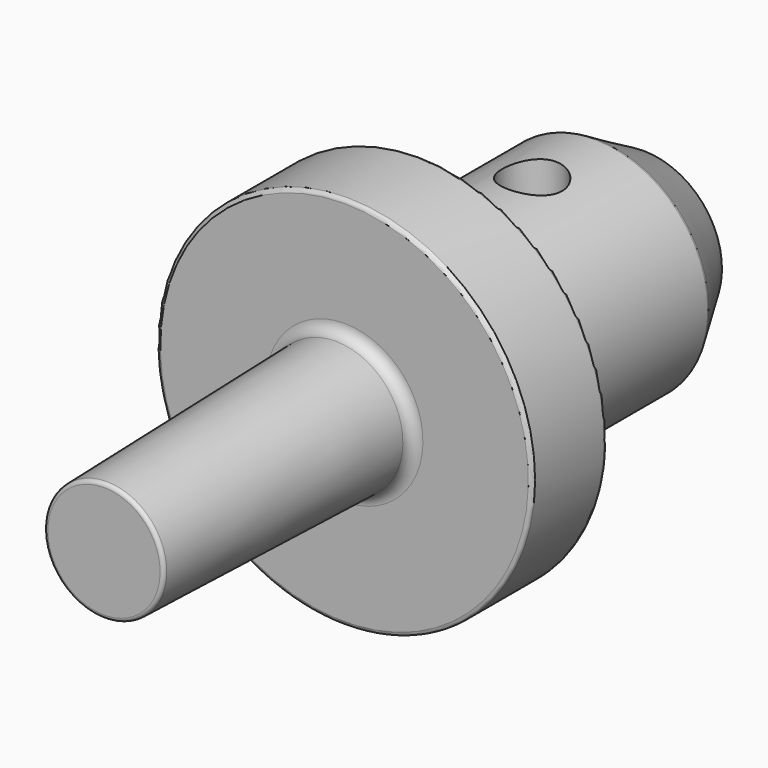
from build123d import *

# Parameters (mm, degrees)
F2_R      = 0.762
F3_R      = 0.254
F6_R      = 0.762
F7_R      = 0.254
F9_D      = 5.1054
F9_DEPTH  = 29.21
F9_TIP    = 1.5338169022
F11_D     = 4.0386
F11_DEPTH = 20.79625
F11_TIP   = 1.213317848


with BuildPart() as f1:
    # F0 (on Right) → F1 (revolve)
    with BuildSketch(Plane.YZ):
        Polygon((-20.32, 0), (25.4, 0), (25.4, 12.7), (0, 12.7), (0, 4.572), (-20.32, 4.0431670856), align=None)
    revolve(axis=Axis((0, 2.54, 0), (0, 1, 0)))

    # F2
    f2_edges = [f1.edges().sort_by_distance(p)[0] for p in [
        (0, 0, -4.572),
    ]]
    fillet(f2_edges, radius=F2_R)

    # F3
    f3_edges = [f1.edges().sort_by_distance(p)[0] for p in [
        (0, 0, -12.7),
        (0, 25.4, -12.7),
        (0, -20.32, -4.043167),
    ]]
    fillet(f3_edges, radius=F3_R)

    # F4 (on Right) → F5 (revolve, cut)
    with BuildSketch(Plane.YZ):
        Polygon((25.4, 19.05), (6.35, 19.05), (6.35, 7.6581), (21.2173533836, 7.6581), (25.4, 5.2432478501), align=None)
    revolve(axis=Axis((0, 4.037976265, 0), (0, 1, 0)), mode=Mode.SUBTRACT)

    # F6
    f6_edges = [f1.edges().sort_by_distance(p)[0] for p in [
        (0, 6.35, -7.6581),
    ]]
    fillet(f6_edges, radius=F6_R)

    # F7
    f7_edges = [f1.edges().sort_by_distance(p)[0] for p in [
        (0, 6.35, -12.7),
        (0, 21.217353, -7.6581),
        (0, 25.4, -5.243248),
    ]]
    fillet(f7_edges, radius=F7_R)

    # F9
    with Locations(Plane(origin=(0, 25.4, 0), x_dir=(-1, 0, 0), z_dir=(0, 1, 0))):
        with Locations((0, 0)):
            Hole(F9_D / 2, depth=F9_DEPTH)
            with Locations((0, 0, -(F9_DEPTH + F9_TIP / 2))):  # 118° drill point
                Cone(0, F9_D / 2, F9_TIP, mode=Mode.SUBTRACT)

    # F11 (one way)
    with BuildSketch(Plane(origin=(0, 0, 0), x_dir=(1, 0, 0), z_dir=(0, 0, -1))):
        with Locations((0, -15.875)):
            Circle(F11_D / 2)
    extrude(amount=-F11_DEPTH, mode=Mode.SUBTRACT)
    with Locations(Plane(origin=(0, 0, 0), x_dir=(1, 0, 0), z_dir=(0, 0, -1))):
        with Locations((0, -15.875)):
            with Locations((0, 0, -(F11_DEPTH + F11_TIP / 2))):  # 118° drill point
                Cone(0, F11_D / 2, F11_TIP, mode=Mode.SUBTRACT)


solid = f1.part
